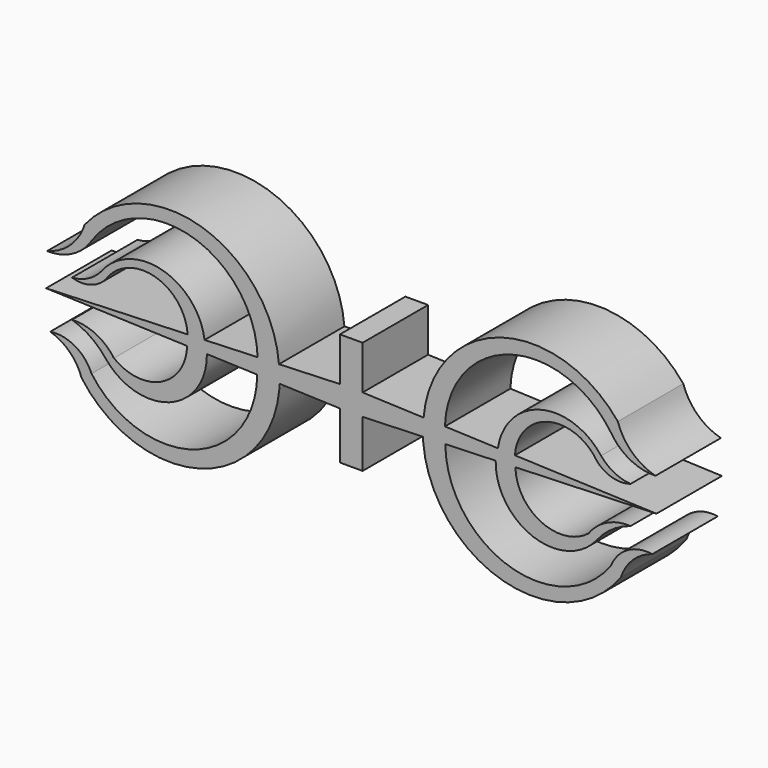
from build123d import *

# Parameters (mm, degrees)
F1_DEPTH = 12.7


with BuildPart() as f1:
    # F0 (on Front) → F1 (new body)
    with BuildSketch(Plane.XZ):
        with BuildLine():
            ThreePointArc((-40.265948, 9.664616), (-24.650693, 15.197856), (-14.536763, 2.076829))
            Line((-14.536763, 2.076829), (-11.225032, 2.202881))
            ThreePointArc((-11.225032, 2.202881), (-23.159816, 17.038607), (-41.370623, 11.479438))
            ThreePointArc((-41.370623, 11.479438), (-43.583964, 7.971244), (-47.209617, 5.956065))
            ThreePointArc((-47.209617, 5.956065), (-43.24405, 6.885906), (-40.265948, 9.664616))
        make_face()
        Polygon((-11.225032, 2.202881), (-14.536763, 2.076829), (-22.76192, 1.763761), (-25.398378, 1.663411), (-47.367427, 0.827219), (-25.479827, 0.062477), (-22.414305, -0.044631), (-14.600246, -0.31765), (-11.163942, -0.437713), (-1.760149, -0.766277), (-1.760149, -8.163029), (1.760149, -8.163029), (1.760149, -0.766277), (11.09894, -0.439984), (14.600246, -0.31765), (22.414305, -0.044631), (25.479827, 0.062477), (47.367427, 0.827219), (25.398378, 1.663411), (22.76192, 1.763761), (14.536763, 2.076829), (11.225032, 2.202881), (1.760149, 2.563136), (1.760149, 9.353689), (-1.760149, 9.353689), (-1.760149, 2.563136), align=None)
        with BuildLine():
            Line((-25.398378, 1.663411), (-22.76192, 1.763761))
            ThreePointArc((-22.76192, 1.763761), (-29.366884, 9.194916), (-38.766749, 5.956065))
            ThreePointArc((-38.766749, 5.956065), (-40.814321, 4.307167), (-43.343257, 3.588905))
            ThreePointArc((-43.343257, 3.588905), (-40.528857, 3.527128), (-38.135506, 5.009201))
            ThreePointArc((-38.135506, 5.009201), (-30.561143, 7.926678), (-25.398378, 1.663411))
        make_face()
        with BuildLine():
            Line((-22.414305, -0.044631), (-25.479827, 0.062477))
            ThreePointArc((-25.479827, 0.062477), (-29.496095, -6.134913), (-36.833337, -5.296501))
            ThreePointArc((-36.833337, -5.296501), (-39.686114, -2.89611), (-43.343257, -2.171184))
            ThreePointArc((-43.343257, -2.171184), (-40.465201, -3.562838), (-38.135506, -5.752001))
            ThreePointArc((-38.135506, -5.752001), (-28.228189, -8.536087), (-22.414305, -0.044631))
        make_face()
        with BuildLine():
            ThreePointArc((41.370623, 11.479438), (23.159816, 17.038607), (11.225032, 2.202881))
            Line((11.225032, 2.202881), (14.536763, 2.076829))
            ThreePointArc((14.536763, 2.076829), (24.650693, 15.197856), (40.265948, 9.664616))
            ThreePointArc((40.265948, 9.664616), (43.24405, 6.885906), (47.209617, 5.956065))
            ThreePointArc((47.209617, 5.956065), (43.583964, 7.971244), (41.370623, 11.479438))
        make_face()
        with BuildLine():
            Line((-11.163942, -0.437713), (-14.600246, -0.31765))
            ThreePointArc((-14.600246, -0.31765), (-24.471093, -13.769039), (-40.317842, -8.548501))
            ThreePointArc((-40.317842, -8.548501), (-42.887794, -5.609688), (-46.726819, -4.900348))
            ThreePointArc((-46.726819, -4.900348), (-43.710466, -6.671359), (-41.858114, -9.638456))
            ThreePointArc((-41.858114, -9.638456), (-23.572679, -16.078256), (-11.163942, -1.18358))
            Line((-11.163942, -1.18358), (-11.163942, -0.437713))
        make_face()
        with BuildLine():
            ThreePointArc((38.766749, 5.956065), (29.366884, 9.194916), (22.76192, 1.763761))
            Line((22.76192, 1.763761), (25.398378, 1.663411))
            ThreePointArc((25.398378, 1.663411), (30.561143, 7.926678), (38.135506, 5.009201))
            ThreePointArc((38.135506, 5.009201), (40.528857, 3.527128), (43.343257, 3.588905))
            ThreePointArc((43.343257, 3.588905), (40.814321, 4.307167), (38.766749, 5.956065))
        make_face()
        with BuildLine():
            ThreePointArc((36.833337, -5.296501), (29.496095, -6.134913), (25.479827, 0.062477))
            Line((25.479827, 0.062477), (22.414305, -0.044631))
            ThreePointArc((22.414305, -0.044631), (28.228189, -8.536087), (38.135506, -5.752001))
            ThreePointArc((38.135506, -5.752001), (40.465201, -3.562838), (43.343257, -2.171184))
            ThreePointArc((43.343257, -2.171184), (39.686114, -2.89611), (36.833337, -5.296501))
        make_face()
        with BuildLine():
            Line((14.600246, -0.31765), (11.09894, -0.439984))
            Line((11.09894, -0.439984), (11.163942, -1.18358))
            ThreePointArc((11.163942, -1.18358), (23.572679, -16.078256), (41.858114, -9.638456))
            ThreePointArc((41.858114, -9.638456), (43.710466, -6.671359), (46.726819, -4.900348))
            ThreePointArc((46.726819, -4.900348), (42.887794, -5.609688), (40.317842, -8.548501))
            ThreePointArc((40.317842, -8.548501), (24.471093, -13.769039), (14.600246, -0.31765))
        make_face()
    extrude(amount=F1_DEPTH)


solid = f1.part
